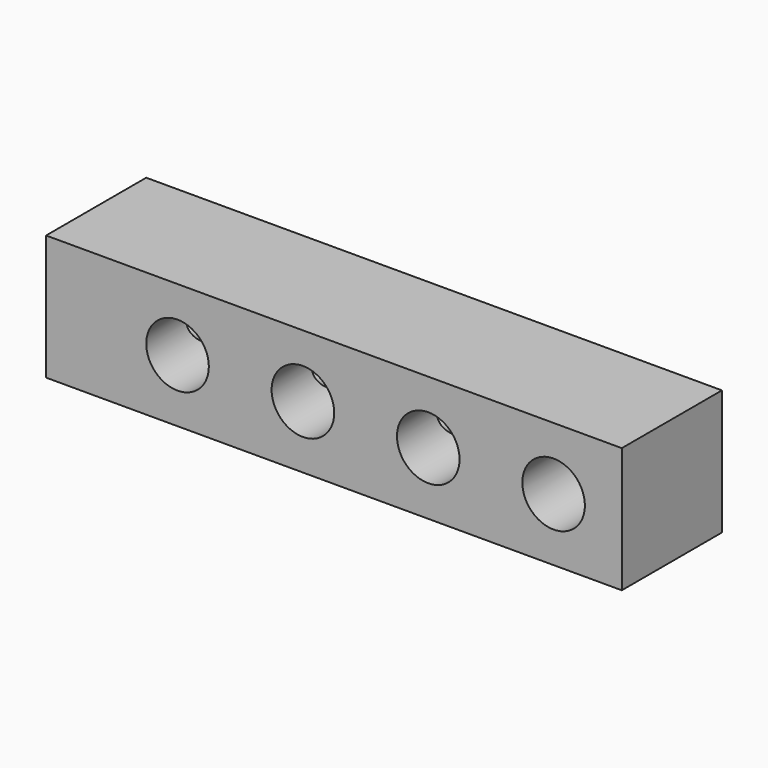
from build123d import *

# Parameters (mm, degrees)
F0_W          = 73.025
F0_H          = 15.875
F1_DEPTH      = 9.525
F1_DEPTH_BACK = 6.35
F2_R          = 5.1435
F3_DEPTH      = 9.525
F4_R          = 3.175
F5_DEPTH      = 57.15
F6_R          = 3.96875
F7_DEPTH      = 9.525


with BuildPart() as f1:
    # F0 (on Front) → F1 (new body, two sides)
    with BuildSketch(Plane.XZ) as f1_sk:
        Rectangle(F0_W, F0_H)
    extrude(amount=F1_DEPTH)
    extrude(f1_sk.sketch, amount=-F1_DEPTH_BACK)

    # F2 (on face) → F3 (cut)
    with BuildSketch(Plane(origin=(-36.5125, 0, 0), x_dir=(0, -1, 0), z_dir=(-1, 0, 0))):
        Circle(F2_R)
    extrude(amount=-F3_DEPTH, mode=Mode.SUBTRACT)

    # F4 (on face) → F5 (cut)
    with BuildSketch(Plane(origin=(-36.5125, 0, 0), x_dir=(0, -1, 0), z_dir=(-1, 0, 0))):
        Circle(F4_R)
    extrude(amount=-F5_DEPTH, mode=Mode.SUBTRACT)

    # F6 (on face) → F7 (cut, through all)
    with BuildSketch(Plane.XZ.offset(9.525)):
        with Locations((-3.937, 0)):
            Circle(F6_R)
        with Locations((-19.8374, 0)):
            Circle(F6_R)
        with Locations((11.9634, 0)):
            Circle(F6_R)
        with Locations((27.8638, 0)):
            Circle(F6_R)
    extrude(amount=-F7_DEPTH, mode=Mode.SUBTRACT)


solid = f1.part
